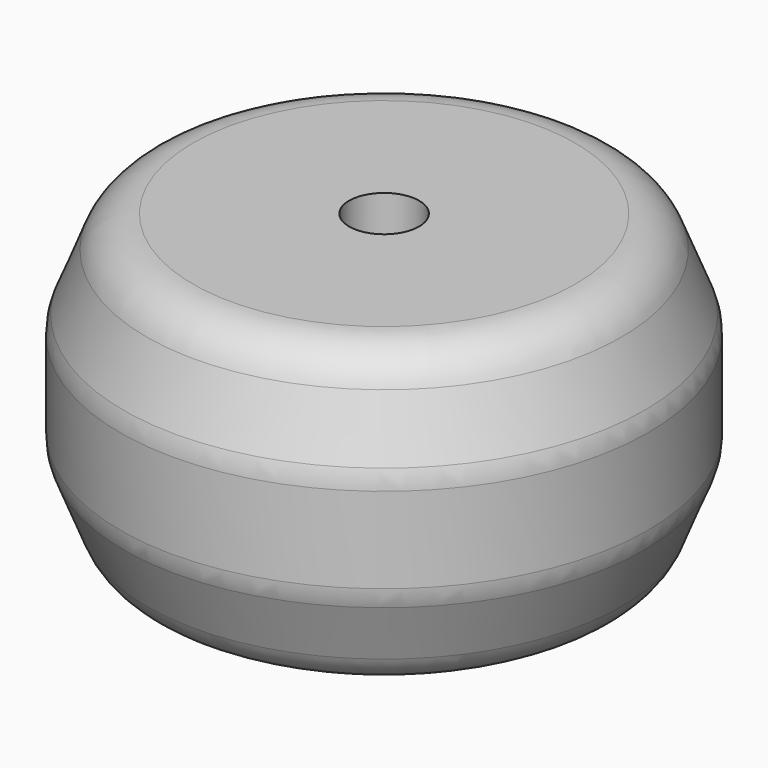
from build123d import *

# Parameters (mm, degrees)
F0_R     = 9
F0_R_2   = 1.4
F1_DEPTH = 12
F4_R     = 2


with BuildPart() as f1:
    # F0 (on Top) → F1 (new body)
    with BuildSketch(Plane.XY):
        Circle(F0_R)
        Circle(F0_R_2, mode=Mode.SUBTRACT)
    extrude(amount=F1_DEPTH)

    # F2 (on Front) → F3 (revolve)
    with BuildSketch(Plane.XZ):
        Polygon((-10.558846, 3.9), (-9, 0), (-9, 12), (-10.558846, 8.1), align=None)
    revolve(axis=Axis((0, 0, 12), (0, 0, 1)))

    # F4
    f4_edges = [f1.edges().sort_by_distance(p)[0] for p in [
        (10.558846, 0, 3.9),
        (10.558846, 0, 8.1),
        (-9.779423, 0, 1.95),
        (9, 0, 0),
        (9, 0, 12),
    ]]
    fillet(f4_edges, radius=F4_R)


solid = f1.part
